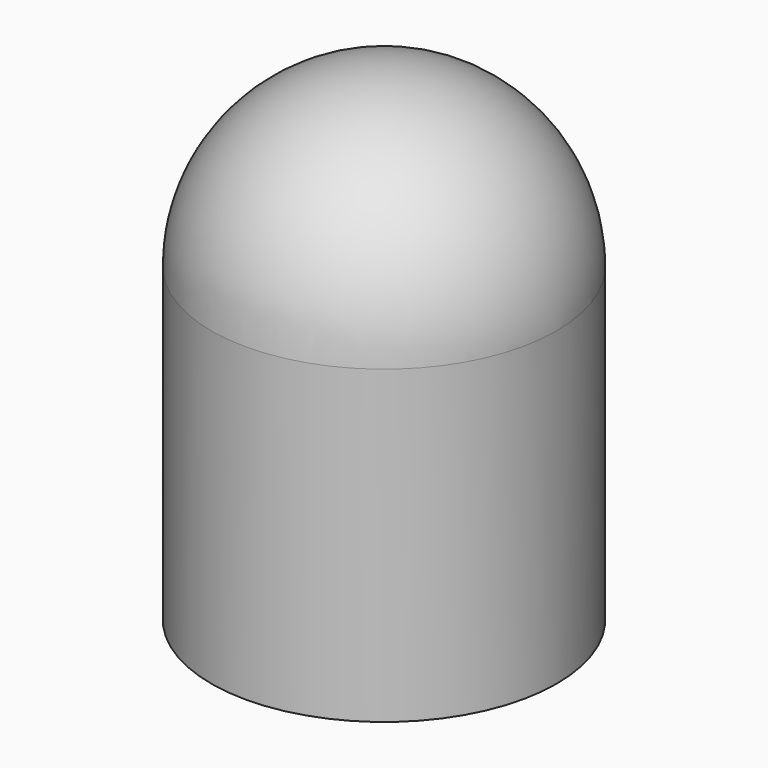
from build123d import *

# Parameters (mm, degrees)
F0_R     = 2.225
F1_DEPTH = 4


with BuildPart() as f1:
    # F0 (on Top) → F1 (new body)
    with BuildSketch(Plane.XY):
        Circle(F0_R)
    extrude(amount=F1_DEPTH)

    # F2 (on face) → F3 (revolve)
    with BuildSketch(Plane.XY.offset(4)):
        with BuildLine():
            Line((-2.225, 0), (2.225, 0))
            ThreePointArc((2.225, 0), (0, 2.225), (-2.225, 0))
        make_face()
    revolve(axis=Axis((0, 0, 4), (1, 0, 0)))


solid = f1.part
